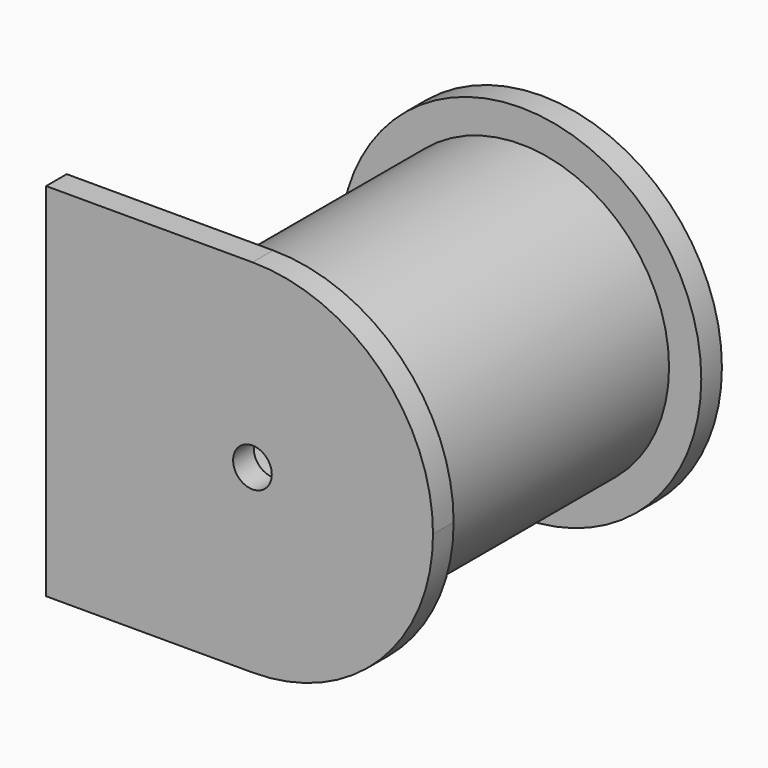
from build123d import *

# Parameters (mm, degrees)
F0_R     = 44.45
F0_R_2   = 19.05
F1_DEPTH = 6.35
F2_R     = 36.5125
F2_R_2   = 31.75
F3_DEPTH = 76.2
F5_DEPTH = 6.35
F6_W     = 6.35
F6_H     = 50.8
F7_DEPTH = 76.2


with BuildPart() as f1:
    # F0 (on Front) → F1 (new body)
    with BuildSketch(Plane.XZ):
        Circle(F0_R)
        Circle(F0_R_2, mode=Mode.SUBTRACT)
    extrude(amount=F1_DEPTH)

    # F2 (on face) → F3 (join)
    with BuildSketch(Plane.XZ.offset(6.35)):
        Circle(F2_R)
        Circle(F2_R_2, mode=Mode.SUBTRACT)
    extrude(amount=F3_DEPTH)

    # F4 (on face) → F5 (join)
    with BuildSketch(Plane.XZ.offset(82.55)):
        with BuildLine():
            ThreePointArc((0, -44.45), (31.4308964237, -31.4308964237), (44.45, 0))
            ThreePointArc((44.45, 0), (31.4308964237, 31.4308964237), (0, 44.45))
            Line((0, 44.45), (0, 4.7625))
            ThreePointArc((0, 4.7625), (3.3675960454, 3.3675960454), (4.7625, 0))
            ThreePointArc((4.7625, 0), (3.3675960454, -3.3675960454), (0, -4.7625))
            Line((0, -4.7625), (0, -44.45))
        make_face()
        with BuildLine():
            Line((0, 4.7625), (0, 44.45))
            ThreePointArc((0, 44.45), (-44.45, 0), (0, -44.45))
            Line((0, -44.45), (0, -4.7625))
            ThreePointArc((0, -4.7625), (-4.7625, 0), (0, 4.7625))
        make_face()
        with BuildLine():
            ThreePointArc((0, -44.45), (-44.45, 0), (0, 44.45))
            Line((0, 44.45), (-50.8, 44.45))
            Line((-50.8, 44.45), (-50.8, -44.45))
            Line((-50.8, -44.45), (0, -44.45))
        make_face()
    extrude(amount=F5_DEPTH)


with BuildPart() as f7:
    # F6 (on face) → F7 (new body)
    with BuildSketch(Plane.XZ.offset(88.9)):
        with Locations((41.275, 0)):
            Rectangle(F6_W, F6_H)
    extrude(amount=F7_DEPTH)


solid = f1.part
